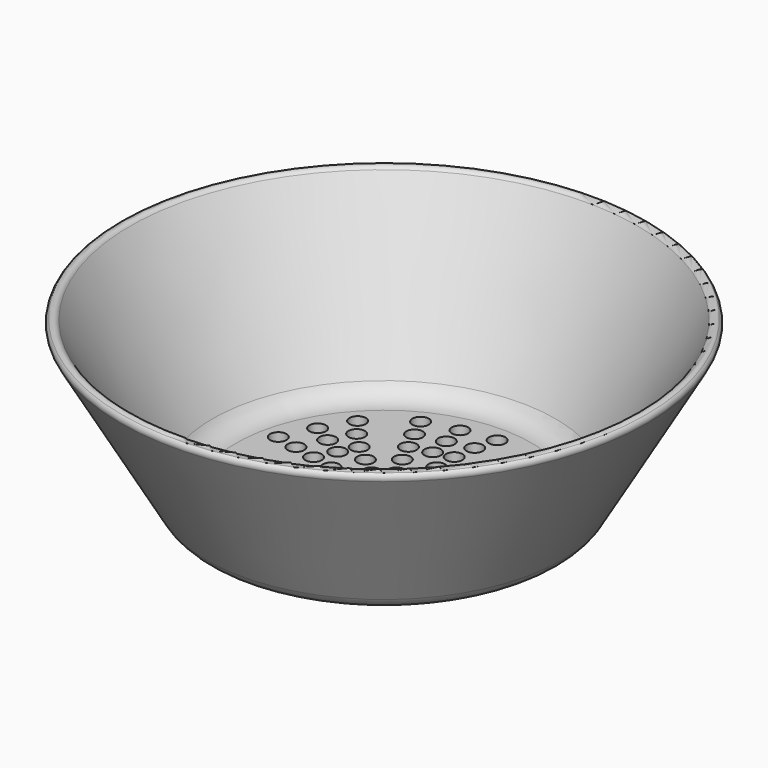
from build123d import *

# Parameters (mm, degrees)
F2_R     = 1.5
F3_DEPTH = 25
F4_R     = 1.5
F5_DEPTH = 25


with BuildPart() as f1:
    # F0 (on Front) → F1 (revolve)
    with BuildSketch(Plane.XZ):
        with BuildLine():
            Line((26.958548, 0), (0, 0))
            Line((0, 0), (0, -2))
            Line((0, -2), (28.113249, -2))
            ThreePointArc((28.113249, -2), (30.613249, -1.330127), (32.443376, 0.5))
            Line((32.443376, 0.5), (48.064948, 27.557357))
            ThreePointArc((48.064948, 27.557357), (48.180461, 28.248623), (47.81385, 28.84594))
            ThreePointArc((47.81385, 28.84594), (47.007656, 29.038895), (46.332897, 28.557357))
            Line((46.332897, 28.557357), (31.288675, 2.5))
            ThreePointArc((31.288675, 2.5), (29.458548, 0.669873), (26.958548, 0))
        make_face()
    revolve(axis=Axis((0, 0, 22.936326), (0, 0, 1)))

    # F2 (on face) → F3 (cut)
    with BuildSketch(Plane.XY):
        with Locations((0.535612, 20.010184)):
            Circle(F2_R)
        with Locations((0, 16.010184)):
            Circle(F2_R)
        with Locations((0, 12.010184)):
            Circle(F2_R)
        with Locations((0, 8.010184)):
            Circle(F2_R)
        with Locations((-0.021516, 4.010184)):
            Circle(F2_R)
        with Locations((1.55299, 23.878638)):
            Circle(F2_R)
        with Locations((-3.148703, 2.483486)):
            Circle(F2_R)
        with Locations((-9.38994, 7.488227)):
            Circle(F2_R)
        with Locations((-6.262614, 4.994268)):
            Circle(F2_R)
        with Locations((-12.517266, 9.982186)):
            Circle(F2_R)
        with Locations((-15.310643, 12.894904)):
            Circle(F2_R)
        with Locations((-17.700798, 16.102264)):
            Circle(F2_R)
        with Locations((-3.904852, -0.913327)):
            Circle(F2_R)
        with Locations((-11.709063, -2.672517)):
            Circle(F2_R)
        with Locations((-7.809351, -1.782434)):
            Circle(F2_R)
        with Locations((-15.608775, -3.562601)):
            Circle(F2_R)
        with Locations((-19.627671, -3.930501)):
            Circle(F2_R)
        with BuildLine():
            ThreePointArc((-22.768372, -5.030415), (-22.295913, -4.493804), (-22.125524, -3.799444))
            ThreePointArc((-22.125524, -3.799444), (-24.955134, -3.105084), (-22.768372, -5.030415))
        make_face()
        with BuildLine():
            ThreePointArc((1.5, 0), (-0.500189, 1.414147), (-1.166415, -0.943121))
            ThreePointArc((-1.166415, -0.943121), (0.500189, -1.414147), (1.5, 0))
        make_face()
        with BuildLine():
            ThreePointArc((-5.054463, -4.086857), (-7.163998, -3.863564), (-7.387292, -5.973099))
            Line((-7.387292, -5.973099), (-5.054463, -4.086857))
        make_face()
        with BuildLine():
            Line((-5.054463, -4.086857), (-7.387292, -5.973099))
            ThreePointArc((-7.387292, -5.973099), (-5.720688, -6.444125), (-4.720878, -5.029978))
            ThreePointArc((-4.720878, -5.029978), (-4.806731, -4.529789), (-5.054463, -4.086857))
        make_face()
        with BuildLine():
            ThreePointArc((-8.164902, -6.601847), (-10.274437, -6.378553), (-10.497731, -8.488089))
            Line((-10.497731, -8.488089), (-8.164902, -6.601847))
        make_face()
        with BuildLine():
            Line((-8.164902, -6.601847), (-10.497731, -8.488089))
            ThreePointArc((-10.497731, -8.488089), (-8.831127, -8.959114), (-7.831316, -7.544968))
            ThreePointArc((-7.831316, -7.544968), (-7.91717, -7.044779), (-8.164902, -6.601847))
        make_face()
        with BuildLine():
            ThreePointArc((-11.275341, -9.116836), (-13.384876, -8.893542), (-13.60817, -11.003078))
            Line((-13.60817, -11.003078), (-11.275341, -9.116836))
        make_face()
        with BuildLine():
            Line((-11.275341, -9.116836), (-13.60817, -11.003078))
            ThreePointArc((-13.60817, -11.003078), (-11.941566, -11.474103), (-10.941755, -10.059957))
            ThreePointArc((-10.941755, -10.059957), (-11.027608, -9.559768), (-11.275341, -9.116836))
        make_face()
        with BuildLine():
            ThreePointArc((-14.385779, -11.631825), (-16.495315, -11.408531), (-16.718608, -13.518067))
            Line((-16.718608, -13.518067), (-14.385779, -11.631825))
        make_face()
        with BuildLine():
            Line((-14.385779, -11.631825), (-16.718608, -13.518067))
            ThreePointArc((-16.718608, -13.518067), (-15.052005, -13.989093), (-14.052194, -12.574946))
            ThreePointArc((-14.052194, -12.574946), (-14.138047, -12.074757), (-14.385779, -11.631825))
        make_face()
        with BuildLine():
            ThreePointArc((-10.259748, -20.840093), (-11.065388, -19.510482), (-12.616901, -19.609121))
            ThreePointArc((-12.616901, -19.609121), (-12.454108, -22.169703), (-10.259748, -20.840093))
        make_face()
        with BuildLine():
            ThreePointArc((-17.162633, -15.089935), (-17.248486, -14.589746), (-17.496218, -14.146814))
            Line((-17.496218, -14.146814), (-19.829047, -16.033056))
            ThreePointArc((-19.829047, -16.033056), (-18.162444, -16.504082), (-17.162633, -15.089935))
        make_face()
        with BuildLine():
            Line((-19.829047, -16.033056), (-17.496218, -14.146814))
            ThreePointArc((-17.496218, -14.146814), (-19.605754, -13.923521), (-19.829047, -16.033056))
        make_face()
        with Locations((-1.720568, -3.622386)):
            Circle(F2_R)
        with Locations((-5.211023, -10.820801)):
            Circle(F2_R)
        with Locations((-3.475488, -7.216926)):
            Circle(F2_R)
        with Locations((-6.946558, -14.424677)):
            Circle(F2_R)
        with Locations((-9.164663, -17.796159)):
            Circle(F2_R)
        with Locations((1.759339, -3.603715)):
            Circle(F2_R)
        with Locations((5.211023, -10.820801)):
            Circle(F2_R)
        with Locations((3.475488, -7.216926)):
            Circle(F2_R)
        with Locations((6.946558, -14.424677)):
            Circle(F2_R)
        with Locations((8.199523, -18.260946)):
            Circle(F2_R)
        with Locations((8.961357, -22.187727)):
            Circle(F2_R)
        with Locations((3.914428, -0.871373)):
            Circle(F2_R)
        with Locations((11.709063, -2.672517)):
            Circle(F2_R)
        with Locations((7.809351, -1.782434)):
            Circle(F2_R)
        with Locations((15.608775, -3.562601)):
            Circle(F2_R)
        with Locations((19.389301, -4.974868)):
            Circle(F2_R)
        with Locations((22.934378, -6.82755)):
            Circle(F2_R)
        with Locations((3.121873, 2.517131)):
            Circle(F2_R)
        with Locations((9.38994, 7.488227)):
            Circle(F2_R)
        with Locations((6.262614, 4.994268)):
            Circle(F2_R)
        with Locations((12.517266, 9.982186)):
            Circle(F2_R)
        with Locations((15.97854, 12.057387)):
            Circle(F2_R)
        with Locations((19.637345, 13.673911)):
            Circle(F2_R)
        with Locations((0.161825, -23.999454)):
            Circle(F2_R)
        with Locations((0.134854, -19.999545)):
            Circle(F2_R)
        with Locations((0.107884, -15.999636)):
            Circle(F2_R)
        with Locations((0.080913, -11.999727)):
            Circle(F2_R)
        with Locations((0.053942, -7.999818)):
            Circle(F2_R)
        with Locations((18.864425, -14.836895)):
            Circle(F2_R)
        with Locations((15.720355, -12.364079)):
            Circle(F2_R)
        with Locations((12.576284, -9.891263)):
            Circle(F2_R)
        with Locations((9.432213, -7.418447)):
            Circle(F2_R)
        with Locations((6.288142, -4.945632)):
            Circle(F2_R)
        with Locations((23.361728, 5.498149)):
            Circle(F2_R)
        with Locations((19.468107, 4.581791)):
            Circle(F2_R)
        with Locations((15.574486, 3.665433)):
            Circle(F2_R)
        with Locations((11.680864, 2.749074)):
            Circle(F2_R)
        with Locations((7.787243, 1.832716)):
            Circle(F2_R)
        with Locations((10.267173, 21.692975)):
            Circle(F2_R)
        with Locations((8.555978, 18.077479)):
            Circle(F2_R)
        with Locations((6.844782, 14.461983)):
            Circle(F2_R)
        with Locations((5.133587, 10.846487)):
            Circle(F2_R)
        with Locations((3.422391, 7.230992)):
            Circle(F2_R)
        with Locations((-10.558773, 21.552548)):
            Circle(F2_R)
        with Locations((-8.798977, 17.960457)):
            Circle(F2_R)
        with Locations((-7.039182, 14.368365)):
            Circle(F2_R)
        with Locations((-5.279386, 10.776274)):
            Circle(F2_R)
        with Locations((-3.519591, 7.184183)):
            Circle(F2_R)
        with Locations((-23.433748, 5.182613)):
            Circle(F2_R)
        with Locations((-19.528123, 4.318844)):
            Circle(F2_R)
        with Locations((-15.622498, 3.455075)):
            Circle(F2_R)
        with Locations((-11.716874, 2.591307)):
            Circle(F2_R)
        with Locations((-7.811249, 1.727538)):
            Circle(F2_R)
    extrude(amount=-F3_DEPTH, mode=Mode.SUBTRACT)

    # F4 (on face) → F5 (cut)
    with BuildSketch(Plane.XY):
        with BuildLine():
            ThreePointArc((-21.763382, -8.035784), (-22.733629, -8.844447), (-22.742275, -10.107475))
            Line((-22.742275, -10.107475), (-21.138464, -9.457461))
            Line((-21.138464, -9.457461), (-21.763382, -8.035784))
        make_face()
        with BuildLine():
            ThreePointArc((-12.73464, -6.051448), (-14.688227, -5.224708), (-15.514966, -7.178295))
            Line((-15.514966, -7.178295), (-12.73464, -6.051448))
        make_face()
        with BuildLine():
            Line((-12.73464, -6.051448), (-15.514966, -7.178295))
            ThreePointArc((-15.514966, -7.178295), (-13.837788, -8.087156), (-12.624803, -6.614872))
            ThreePointArc((-12.624803, -6.614872), (-12.652518, -6.327856), (-12.73464, -6.051448))
        make_face()
        with BuildLine():
            ThreePointArc((-16.349143, -7.516382), (-18.310254, -6.670709), (-19.129213, -8.643125))
            Line((-19.129213, -8.643125), (-16.349143, -7.516382))
        make_face()
        with BuildLine():
            Line((-16.349143, -7.516382), (-19.129213, -8.643125))
            ThreePointArc((-19.129213, -8.643125), (-17.449824, -9.531174), (-16.24683, -8.060873))
            ThreePointArc((-16.24683, -8.060873), (-16.27263, -7.783863), (-16.349143, -7.516382))
        make_face()
        with BuildLine():
            Line((-21.138464, -9.457461), (-22.742275, -10.107475))
            ThreePointArc((-22.742275, -10.107475), (-21.802765, -10.923701), (-20.570438, -10.749712))
            Line((-20.570438, -10.749712), (-21.138464, -9.457461))
        make_face()
        with BuildLine():
            Line((-21.763382, -8.035784), (-21.138464, -9.457461))
            Line((-21.138464, -9.457461), (-19.964478, -8.981653))
            ThreePointArc((-19.964478, -8.981653), (-20.67932, -8.157617), (-21.763382, -8.035784))
        make_face()
        with BuildLine():
            Line((-19.964478, -8.981653), (-21.138464, -9.457461))
            Line((-21.138464, -9.457461), (-20.570438, -10.749712))
            ThreePointArc((-20.570438, -10.749712), (-20.062025, -10.206228), (-19.877406, -9.485274))
            ThreePointArc((-19.877406, -9.485274), (-19.899334, -9.229728), (-19.964478, -8.981653))
        make_face()
        with Locations((-4.762724, -18.900903)):
            Circle(F4_R)
        with Locations((-3.634956, -15.167521)):
            Circle(F4_R)
        with Locations((-5.912708, -22.627501)):
            Circle(F4_R)
        with Locations((11.807811, -15.508167)):
            Circle(F4_R)
        with Locations((9.592087, -12.298718)):
            Circle(F4_R)
        with Locations((14.004379, -18.730758)):
            Circle(F4_R)
        with Locations((19.486823, -0.437466)):
            Circle(F4_R)
        with Locations((15.596093, -0.168729)):
            Circle(F4_R)
        with Locations((23.375884, -0.729372)):
            Circle(F4_R)
        with Locations((12.49186, 14.962656)):
            Circle(F4_R)
        with Locations((9.855923, 12.088316)):
            Circle(F4_R)
        with Locations((15.144871, 17.821246)):
            Circle(F4_R)
        with Locations((-3.909728, 19.095593)):
            Circle(F4_R)
        with Locations((-3.305958, 15.242612)):
            Circle(F4_R)
        with Locations((-4.490538, 22.952102)):
            Circle(F4_R)
        with Locations((-17.367212, 8.849159)):
            Circle(F4_R)
        with Locations((-13.978386, 6.918911)):
            Circle(F4_R)
        with Locations((-20.744481, 10.799557)):
            Circle(F4_R)
    extrude(amount=-F5_DEPTH, mode=Mode.SUBTRACT)


solid = f1.part
